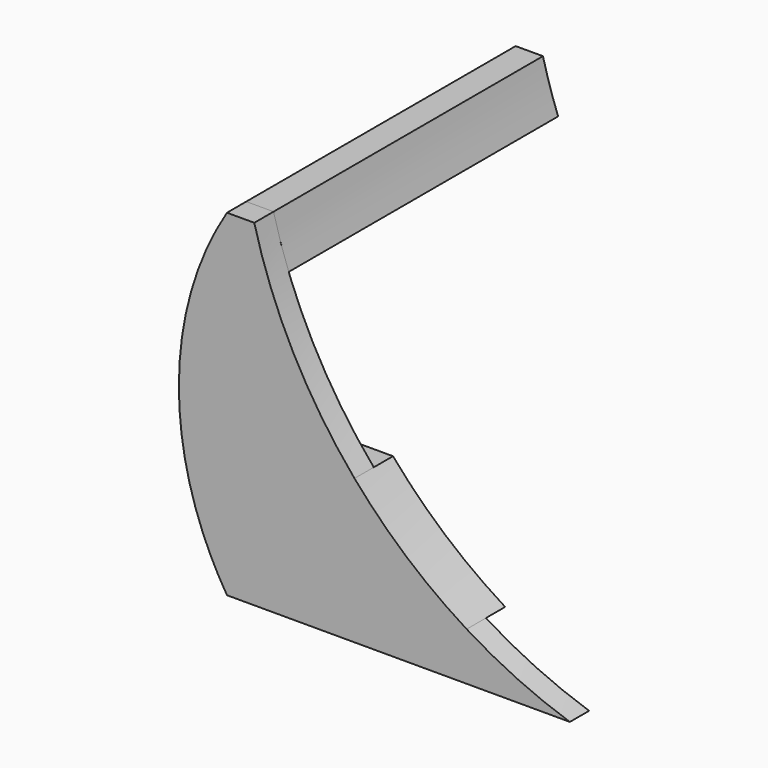
from build123d import *

# Parameters (mm, degrees)
F1_DEPTH = 6.35
F3_DEPTH = 12.7
F5_DEPTH = 88.9


with BuildPart() as f1:
    # F0 (on Front) → F1 (new body)
    with BuildSketch(Plane.XZ):
        with BuildLine():
            ThreePointArc((12.7, 0), (3.2372788554, -21.3356511015), (0, -44.45))
            ThreePointArc((0, -44.45), (0.0600126121, -47.6272662433), (0.2399648381, -50.8))
            Line((0.2399648381, -50.8), (46.3633556248, -50.8))
            ThreePointArc((46.3633556248, -50.8), (30.2344073473, -26.9108633319), (19.9077787579, 0))
            Line((19.9077787579, 0), (12.7, 0))
        make_face()
        with BuildLine():
            Line((46.3633556248, -50.8), (0.2399648381, -50.8))
            ThreePointArc((0.2399648381, -50.8), (2.2395472881, -63.7332634128), (6.220515932, -76.2))
            Line((6.220515932, -76.2), (75.9735986694, -76.2))
            ThreePointArc((75.9735986694, -76.2), (60.1873595892, -64.6437452498), (46.3633556248, -50.8))
        make_face()
        with BuildLine():
            ThreePointArc((6.220515932, -76.2), (9.1907657296, -82.6874937522), (12.7, -88.9))
            Line((12.7, -88.9), (13.0139251954, -88.9))
            Line((13.0139251954, -88.9), (103.2192627102, -88.9))
            ThreePointArc((103.2192627102, -88.9), (89.2193530675, -83.3589551349), (75.9735986694, -76.2))
            Line((75.9735986694, -76.2), (6.220515932, -76.2))
        make_face()
    extrude(amount=F1_DEPTH)

    # F2 (on face) → F3 (join)
    with BuildSketch(Plane.XZ.offset(6.35)):
        with BuildLine():
            ThreePointArc((0.2399648381, -50.8), (2.2395472881, -63.7332634128), (6.220515932, -76.2))
            Line((6.220515932, -76.2), (75.9735986694, -76.2))
            ThreePointArc((75.9735986694, -76.2), (60.1873595892, -64.6437452498), (46.3633556248, -50.8))
            Line((46.3633556248, -50.8), (0.2399648381, -50.8))
        make_face()
    extrude(amount=-F3_DEPTH)


with BuildPart() as f5:
    # F4 (on face) → F5 (new body)
    with BuildSketch(Plane(origin=(0, 0, 0), x_dir=(-1, 0, 0), z_dir=(0, 1, 0))):
        with BuildLine():
            ThreePointArc((-19.9077787579, 0), (-21.741231045, -6.4024575715), (-23.9077881305, -12.7))
            Line((-23.9077881305, -12.7), (-6.220515932, -12.7))
            ThreePointArc((-6.220515932, -12.7), (-9.1907657296, -6.2125062478), (-12.7, 0))
            Line((-12.7, 0), (-19.9077787579, 0))
        make_face()
    extrude(amount=F5_DEPTH)


solid = Compound([f1.part, f5.part])
